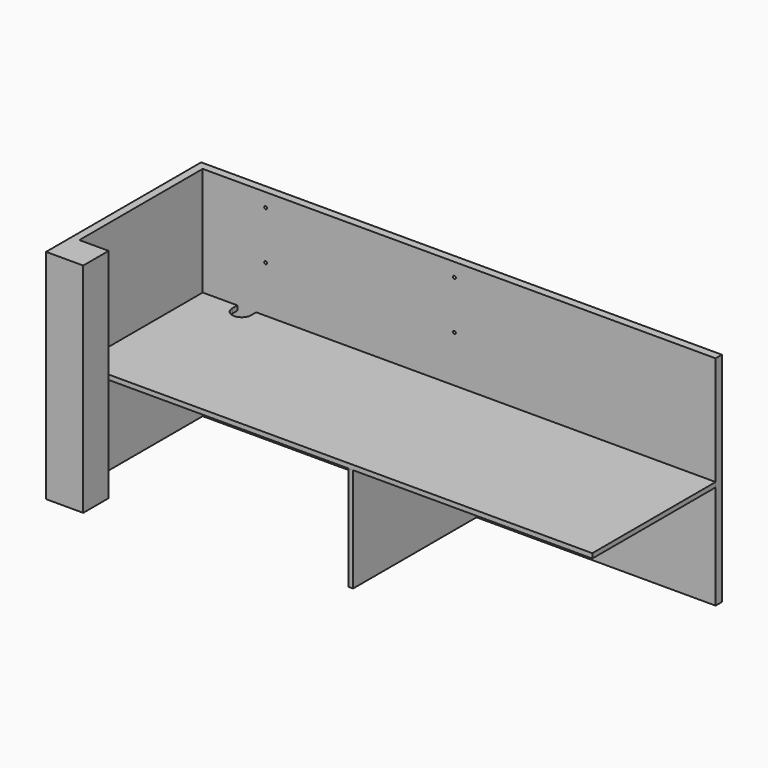
from build123d import *

# Parameters (mm, degrees)
F1_DEPTH = 15
F3_DEPTH = 346
F4_W     = 15
F4_H     = 490
F5_DEPTH = 331
F6_R     = 4.5
F7_DEPTH = 25


with BuildPart() as f1:
    # F0 (on Top) → F1 (new body)
    with BuildSketch(Plane.XY):
        with BuildLine():
            Line((-705, 245), (-815, 245))
            Line((-815, 245), (-815, -245))
            Line((-815, -245), (815, -245))
            Line((815, -245), (815, 245))
            Line((815, 245), (-645, 245))
            Line((-645, 245), (-645, 225))
            ThreePointArc((-645, 225), (-675, 195), (-705, 225))
            Line((-705, 225), (-705, 245))
        make_face()
    extrude(amount=-F1_DEPTH)


with BuildPart() as f3:
    # F2 (on face) → F3 (new body, symmetric)
    with BuildSketch(Plane.XY):
        Polygon((-722, -245), (-815, -245), (-815, 245), (-705, 245), (-645, 245), (815, 245), (815, 270), (-840, 270), (-840, -346), (-722, -346), align=None)
    extrude(amount=F3_DEPTH, both=True)

    # F6 (on face) → F7 (cut)
    with BuildSketch(Plane.XZ.offset(-245)):
        with Locations((-615, 302.5)):
            Circle(F6_R)
        with Locations((-615, 148.5)):
            Circle(F6_R)
        with Locations((-15, 302.5)):
            Circle(F6_R)
        with Locations((-15, 148.5)):
            Circle(F6_R)
    extrude(amount=-F7_DEPTH, mode=Mode.SUBTRACT)


with BuildPart() as f5:
    # F4 (on face) → F5 (new body)
    with BuildSketch(Plane(origin=(0, 0, -15), x_dir=(1, 0, 0), z_dir=(0, 0, -1))):
        with Locations((47.5, 0)):
            Rectangle(F4_W, F4_H)
    extrude(amount=F5_DEPTH)


solid = Compound([f1.part, f3.part, f5.part])
